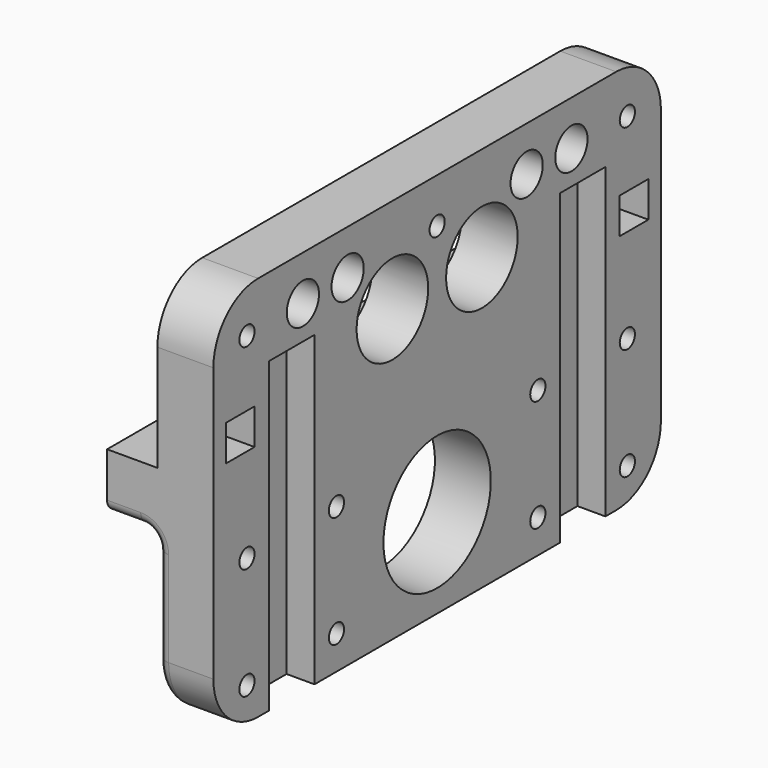
from build123d import *

# Parameters (mm, degrees)
SKETCH001_W     = 100
SKETCH001_H     = 69
SKETCH001_R     = 1.7
SKETCH001_R_2   = 12
SKETCH001_R_3   = 8
SKETCH001_W_2   = 6.4
SKETCH001_H_2   = 6.4
PAD_DEPTH       = 19
SKETCH_W        = 30
SKETCH_H        = 30
POCKET_DEPTH    = 100.001
SKETCH002_R     = 4
POCKET001_DEPTH = 4
SKETCH003_R     = 1.7
POCKET002_DEPTH = 39.001
SKETCH004_W     = 10.2
SKETCH004_H     = 100
POCKET003_DEPTH = 5
SKETCH005_R     = 3.6
POCKET004_DEPTH = 5
SKETCH006_R     = 2.6
POCKET005_DEPTH = 5
FILLET_R        = 10
FILLET001_R     = 10
FILLET002_R     = 10
FILLET003_R     = 10
FILLET004_R     = 3
FILLET005_R     = 2
CHAMFER_SIZE    = 1.7
CHAMFER001_SIZE = 1.7
CHAMFER002_SIZE = 1.7
CHAMFER003_SIZE = 1.7
CHAMFER004_SIZE = 1
CHAMFER005_SIZE = 1


with BuildPart() as part:
    # Sketch001 → Pad (new body)
    with BuildSketch(Plane(origin=(-86, 0, 0), x_dir=(0, -1, 0), z_dir=(-1, 0, 0))):
        with Locations((0, -5.5)):
            Rectangle(SKETCH001_W, SKETCH001_H)
        with Locations((-30, 21)):
            Circle(SKETCH001_R, mode=Mode.SUBTRACT)
        with Locations((30, 21)):
            Circle(SKETCH001_R, mode=Mode.SUBTRACT)
        with Locations((20, 21)):
            Circle(SKETCH001_R, mode=Mode.SUBTRACT)
        with Locations((-20, 21)):
            Circle(SKETCH001_R, mode=Mode.SUBTRACT)
        with Locations((0, -24)):
            Circle(SKETCH001_R_2, mode=Mode.SUBTRACT)
        with Locations((10, 12)):
            Circle(SKETCH001_R_3, mode=Mode.SUBTRACT)
        with Locations((42.5, -14)):
            Circle(SKETCH001_R, mode=Mode.SUBTRACT)
        with Locations((42.5, -34)):
            Circle(SKETCH001_R, mode=Mode.SUBTRACT)
        with Locations((22.5, -14)):
            Circle(SKETCH001_R, mode=Mode.SUBTRACT)
        with Locations((22.5, -34)):
            Circle(SKETCH001_R, mode=Mode.SUBTRACT)
        with Locations((-22.5, -14)):
            Circle(SKETCH001_R, mode=Mode.SUBTRACT)
        with Locations((-42.5, -14)):
            Circle(SKETCH001_R, mode=Mode.SUBTRACT)
        with Locations((-42.5, -34)):
            Circle(SKETCH001_R, mode=Mode.SUBTRACT)
        with Locations((-22.5, -34)):
            Circle(SKETCH001_R, mode=Mode.SUBTRACT)
        with Locations((-42.5, 21)):
            Circle(SKETCH001_R, mode=Mode.SUBTRACT)
        with Locations((42.5, 21)):
            Circle(SKETCH001_R, mode=Mode.SUBTRACT)
        with Locations((0, 21)):
            Circle(SKETCH001_R, mode=Mode.SUBTRACT)
        with Locations((-10, 12)):
            Circle(SKETCH001_R_3, mode=Mode.SUBTRACT)
        with Locations((-44, 6)):
            Rectangle(SKETCH001_W_2, SKETCH001_H_2, mode=Mode.SUBTRACT)
        with Locations((44, 6)):
            Rectangle(SKETCH001_W_2, SKETCH001_H_2, mode=Mode.SUBTRACT)
    extrude(amount=PAD_DEPTH)

    # Sketch → Pocket (cut, through all)
    with BuildSketch(Plane(origin=(-86, 50, 0), x_dir=(0, 0, -1), z_dir=(0, 1, 0))):
        with Locations((-15, 25)):
            Rectangle(SKETCH_W, SKETCH_H)
        with Locations((25, 25)):
            Rectangle(SKETCH_W, SKETCH_H)
    extrude(amount=-POCKET_DEPTH, mode=Mode.SUBTRACT)

    # Sketch002 → Pocket001 (cut)
    with BuildSketch(Plane(origin=(-86, 0, -10), x_dir=(0, -1, 0), z_dir=(0, 0, -1))):
        with Locations((-35, 16)):
            Circle(SKETCH002_R)
        with Locations((35, 16)):
            Circle(SKETCH002_R)
    extrude(amount=-POCKET001_DEPTH, mode=Mode.SUBTRACT)

    # Sketch003 → Pocket002 (cut, through all)
    with BuildSketch(Plane(origin=(-86, 0, -10), x_dir=(0, -1, 0), z_dir=(0, 0, -1))):
        with Locations((-35, 16)):
            Circle(SKETCH003_R)
        with Locations((35, 16)):
            Circle(SKETCH003_R)
    extrude(amount=-POCKET002_DEPTH, mode=Mode.SUBTRACT)

    # Sketch004 → Pocket003 (cut)
    with BuildSketch(Plane(origin=(-86, 0, 0), x_dir=(0, -1, 0), z_dir=(1, 0, 0))):
        with Locations((-32.5, 35)):
            Rectangle(SKETCH004_W, SKETCH004_H)
        with Locations((32.5, 35)):
            Rectangle(SKETCH004_W, SKETCH004_H)
    extrude(amount=-POCKET003_DEPTH, mode=Mode.SUBTRACT)

    # Sketch005 → Pocket004 (cut)
    with BuildSketch(Plane(origin=(-86, 0, 0), x_dir=(0, -1, 0), z_dir=(1, 0, 0))):
        with Locations((-30, -21)):
            Circle(SKETCH005_R)
        with Locations((-20, -21)):
            Circle(SKETCH005_R)
        with Locations((20, -21)):
            Circle(SKETCH005_R)
        with Locations((30, -21)):
            Circle(SKETCH005_R)
    extrude(amount=-POCKET004_DEPTH, mode=Mode.SUBTRACT)

    # Sketch006 → Pocket005 (cut)
    with BuildSketch(Plane(origin=(-96, 0, 0), x_dir=(0, -1, 0), z_dir=(-1, 0, 0))):
        with Locations((-42.5, 21)):
            Circle(SKETCH006_R)
        with Locations((0, 21)):
            Circle(SKETCH006_R)
        with Locations((42.5, 21)):
            Circle(SKETCH006_R)
        with Locations((-42.5, -14)):
            Circle(SKETCH006_R)
        with Locations((-22.5, -14)):
            Circle(SKETCH006_R)
        with Locations((-42.5, -34)):
            Circle(SKETCH006_R)
        with Locations((-22.5, -34)):
            Circle(SKETCH006_R)
        with Locations((22.5, -34)):
            Circle(SKETCH006_R)
        with Locations((22.5, -14)):
            Circle(SKETCH006_R)
        with Locations((42.5, -14)):
            Circle(SKETCH006_R)
        with Locations((42.5, -34)):
            Circle(SKETCH006_R)
    extrude(amount=-POCKET005_DEPTH, mode=Mode.SUBTRACT)

    # Fillet
    fillet_edges = [part.edges().sort_by_distance(p)[0] for p in [
        (-91, -50, 29),
    ]]
    fillet(fillet_edges, radius=FILLET_R)

    # Fillet001
    fillet001_edges = [part.edges().sort_by_distance(p)[0] for p in [
        (-91, -50, -40),
    ]]
    fillet(fillet001_edges, radius=FILLET001_R)

    # Fillet002
    fillet002_edges = [part.edges().sort_by_distance(p)[0] for p in [
        (-91, 50, -40),
    ]]
    fillet(fillet002_edges, radius=FILLET002_R)

    # Fillet003
    fillet003_edges = [part.edges().sort_by_distance(p)[0] for p in [
        (-91, 50, 29),
    ]]
    fillet(fillet003_edges, radius=FILLET003_R)

    # Fillet004
    fillet004_edges = [part.edges().sort_by_distance(p)[0] for p in [
        (-96, 0, -10),
    ]]
    fillet(fillet004_edges, radius=FILLET004_R)

    # Fillet005
    fillet005_edges = [part.edges().sort_by_distance(p)[0] for p in [
        (-96, 50, -21.5),
    ]]
    fillet(fillet005_edges, radius=FILLET005_R)

    # Chamfer
    chamfer_edges = [part.edges().sort_by_distance(p)[0] for p in [
        (-91, 31.7, 21),
    ]]
    chamfer(chamfer_edges, length=CHAMFER_SIZE)

    # Chamfer001
    chamfer001_edges = [part.edges().sort_by_distance(p)[0] for p in [
        (-91, 21.7, 21),
    ]]
    chamfer(chamfer001_edges, length=CHAMFER001_SIZE)

    # Chamfer002
    chamfer002_edges = [part.edges().sort_by_distance(p)[0] for p in [
        (-91, -18.3, 21),
    ]]
    chamfer(chamfer002_edges, length=CHAMFER002_SIZE)

    # Chamfer003
    chamfer003_edges = [part.edges().sort_by_distance(p)[0] for p in [
        (-91, -28.3, 21),
    ]]
    chamfer(chamfer003_edges, length=CHAMFER003_SIZE)

    # Chamfer004
    chamfer004_edges = [part.edges().sort_by_distance(p)[0] for p in [
        (-102, 36.7, -6),
    ]]
    chamfer(chamfer004_edges, length=CHAMFER004_SIZE)

    # Chamfer005
    chamfer005_edges = [part.edges().sort_by_distance(p)[0] for p in [
        (-102, -33.3, -6),
    ]]
    chamfer(chamfer005_edges, length=CHAMFER005_SIZE)


solid = part.part
